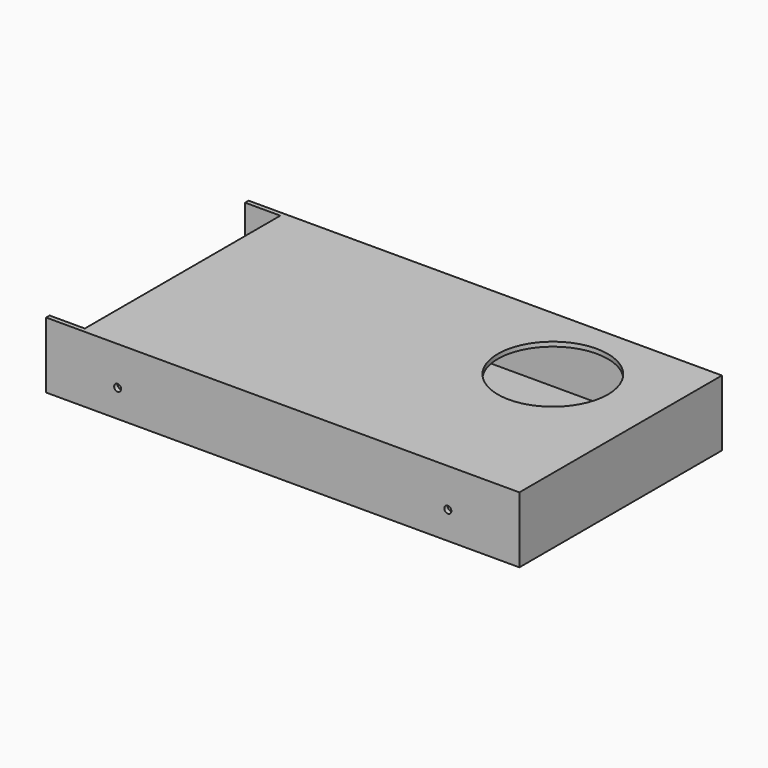
from build123d import *

# Parameters (mm, degrees)
F0_W           = 215
F0_H           = 115
F1_DEPTH       = 30
F3_T           = -2
F4_W           = 16
F4_H           = 111
F2_R           = 25
F5_DEPTH       = 2
F9_D           = 3.2
F9_DEPTH       = 5
F9_TIP         = 0.9613769904
F9_ON_F7_D     = 3.2
F9_ON_F7_DEPTH = 5
F9_ON_F7_TIP   = 0.9613769904
F9_ON_F8_D     = 3.2
F9_ON_F8_DEPTH = 5
F9_ON_F8_TIP   = 0.9613769904


with BuildPart() as f1:
    # F0 (on Top) → F1 (new body)
    with BuildSketch(Plane.XY):
        Rectangle(F0_W, F0_H)
    extrude(amount=F1_DEPTH)

    # F3
    f3_openings = [f1.faces().sort_by_distance(p)[0] for p in [
        (-107.5, 0, 15),
    ]]
    offset(amount=F3_T, openings=f3_openings)

    # F4 (on face) + F2 (on face) → F5 (cut, through all)
    with BuildSketch(Plane.XY.offset(30)):
        with Locations((-99.5, 0)):
            Rectangle(F4_W, F4_H)
    with BuildSketch(Plane.XY.offset(30)):
        with Locations((60.05, 20.8)):
            Circle(F2_R)
    extrude(amount=-F5_DEPTH, mode=Mode.SUBTRACT)

    # F9
    with Locations(Plane(origin=(0, 0, 0), x_dir=(1, 0, 0), z_dir=(0, 0, -1))):
        with Locations((-75, 25), (75, -25), (-75, -25), (75, 25)):
            Hole(F9_D / 2, depth=F9_DEPTH)
            with Locations((0, 0, -(F9_DEPTH + F9_TIP / 2))):  # 118° drill point
                Cone(0, F9_D / 2, F9_TIP, mode=Mode.SUBTRACT)

    # F9 on F7
    with Locations(Plane.XZ.offset(57.5)):
        with Locations((-75, 12.5), (75, 12.5)):
            Hole(F9_ON_F7_D / 2, depth=F9_ON_F7_DEPTH)
            with Locations((0, 0, -(F9_ON_F7_DEPTH + F9_ON_F7_TIP / 2))):  # 118° drill point
                Cone(0, F9_ON_F7_D / 2, F9_ON_F7_TIP, mode=Mode.SUBTRACT)

    # F9 on F8
    with Locations(Plane(origin=(0, 57.5, 0), x_dir=(-1, 0, 0), z_dir=(0, 1, 0))):
        with Locations((-75, 12.5), (75, 12.5)):
            Hole(F9_ON_F8_D / 2, depth=F9_ON_F8_DEPTH)
            with Locations((0, 0, -(F9_ON_F8_DEPTH + F9_ON_F8_TIP / 2))):  # 118° drill point
                Cone(0, F9_ON_F8_D / 2, F9_ON_F8_TIP, mode=Mode.SUBTRACT)


solid = f1.part
